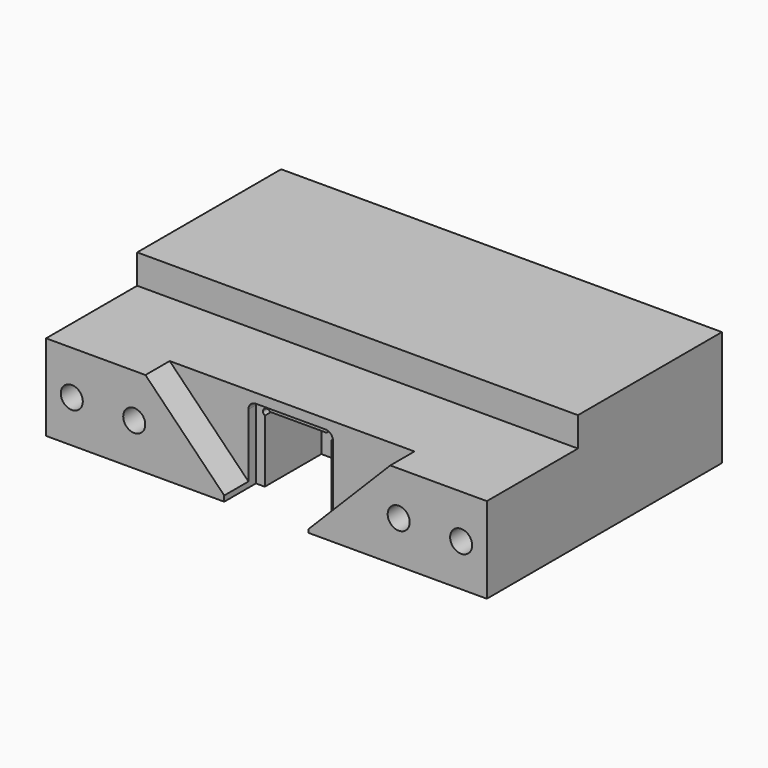
from build123d import *

# Parameters (mm, degrees)
F0_W      = 120
F0_H      = 39.79
F1_DEPTH  = 80
F2_W      = 18.18
F2_H      = 18.4
F3_DEPTH  = 30.03
F4_W      = 23
F4_H      = 20.8
F5_DEPTH  = 10.8
F7_DEPTH  = 19.23
F8_R      = 2
F10_DEPTH = 8.25
F12_DEPTH = 120.001
F13_R     = 3
F14_DEPTH = 80.001
F15_R     = 5.5
F15_R_2   = 3
F16_DEPTH = 6


with BuildPart() as f1:
    # F0 (on Front) → F1 (new body)
    with BuildSketch(Plane.XZ):
        with Locations((0, -19.895)):
            Rectangle(F0_W, F0_H)
    extrude(amount=F1_DEPTH)

    # F2 (on face) → F3 (cut)
    with BuildSketch(Plane.XZ.offset(80)):
        with Locations((0, -30.59)):
            Rectangle(F2_W, F2_H)
    extrude(amount=-F3_DEPTH, mode=Mode.SUBTRACT)

    # F4 (on face) → F5 (cut)
    with BuildSketch(Plane.XZ.offset(80)):
        with Locations((0, -29.39)):
            Rectangle(F4_W, F4_H)
    extrude(amount=-F5_DEPTH, mode=Mode.SUBTRACT)

    # F6 (on face) → F7 (cut, through all)
    with BuildSketch(Plane.XZ.offset(69.2)):
        with BuildLine():
            ThreePointArc((-8.59, -20.89), (-9.297107, -21.182893), (-9.59, -21.89))
            ThreePointArc((-9.59, -21.89), (-8.59, -22.89), (-7.59, -21.89))
            ThreePointArc((-7.59, -21.89), (-7.882893, -21.182893), (-8.59, -20.89))
        make_face()
        with BuildLine():
            ThreePointArc((9.59, -21.89), (9.297107, -21.182893), (8.59, -20.89))
            ThreePointArc((8.59, -20.89), (7.882893, -22.597107), (9.59, -21.89))
        make_face()
    extrude(amount=-F7_DEPTH, mode=Mode.SUBTRACT)

    # F8
    f8_edges = [f1.edges().sort_by_distance(p)[0] for p in [
        (-11.5, -74.6, -18.99),
        (11.5, -74.6, -18.99),
    ]]
    fillet(f8_edges, radius=F8_R)

    # F9 (on face) → F10 (cut)
    with BuildSketch(Plane.XZ.offset(80)):
        Polygon((0.2, 0), (-48.998643, 0), (-10.033396, -39.79), (0.2, -39.79), align=None)
        Polygon((49.916624, 0), (0.2, 0), (0.2, -39.79), (10.541137, -39.79), align=None)
    extrude(amount=-F10_DEPTH, mode=Mode.SUBTRACT)

    # F11 (on face) → F12 (cut, through all)
    with BuildSketch(Plane.YZ.offset(60)):
        Polygon((-49, -8.39), (0, -8.39), (0, 0), (-80, 0), (-80, -16.39), (-49, -16.39), align=None)
    extrude(amount=-F12_DEPTH, mode=Mode.SUBTRACT)

    # F13 (on face) → F14 (cut, through all)
    with BuildSketch(Plane(origin=(0, 0, 0), x_dir=(-1, 0, 0), z_dir=(0, 1, 0))):
        with Locations((-53, -28.29)):
            Circle(F13_R)
        with Locations((-36, -28.29)):
            Circle(F13_R)
        with Locations((36, -28.29)):
            Circle(F13_R)
        with Locations((53, -28.29)):
            Circle(F13_R)
    extrude(amount=-F14_DEPTH, mode=Mode.SUBTRACT)

    # F15 (on face) → F16 (cut)
    with BuildSketch(Plane(origin=(0, 0, 0), x_dir=(-1, 0, 0), z_dir=(0, 1, 0))):
        with Locations((-53, -28.29)):
            Circle(F15_R)
        with Locations((-53, -28.29)):
            Circle(F15_R_2, mode=Mode.SUBTRACT)
        with Locations((-36, -28.29)):
            Circle(F15_R)
        with Locations((-36, -28.29)):
            Circle(F15_R_2, mode=Mode.SUBTRACT)
        with Locations((36, -28.29)):
            Circle(F15_R)
        with Locations((36, -28.29)):
            Circle(F15_R_2, mode=Mode.SUBTRACT)
        with Locations((53, -28.29)):
            Circle(F15_R)
        with Locations((53, -28.29)):
            Circle(F15_R_2, mode=Mode.SUBTRACT)
    extrude(amount=-F16_DEPTH, mode=Mode.SUBTRACT)


solid = f1.part
